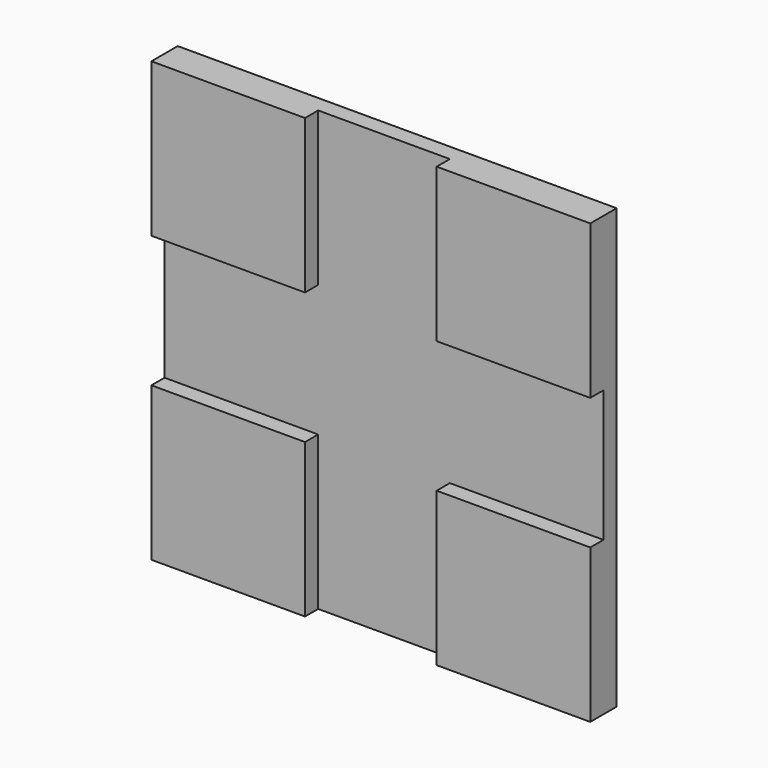
from build123d import *

# Parameters (mm, degrees)
F0_W     = 355.6
F0_H     = 355.6
F1_DEPTH = 38.1
F2_DEPTH = 76.2


with BuildPart() as f1:
    # F0 (on Front) → F1 (new body)
    with BuildSketch(Plane.XZ):
        with Locations((1122.902123, -4376.915325)):
            Rectangle(F0_W, F0_H)
        Polygon((945.102123, -3894.315325), (945.102123, -4199.115325), (1300.702123, -4199.115325), (1300.702123, -4554.715325), (1605.502123, -4554.715325), (1605.502123, -4199.115325), (1961.102123, -4199.115325), (1961.102123, -3894.315325), (1605.502123, -3894.315325), (1605.502123, -3538.715325), (1300.702123, -3538.715325), (1300.702123, -3894.315325), align=None)
        with Locations((1783.302123, -4376.915325)):
            Rectangle(F0_W, F0_H)
        with Locations((1783.302123, -3716.515325)):
            Rectangle(F0_W, F0_H)
        with Locations((1122.902123, -3716.515325)):
            Rectangle(F0_W, F0_H)
    extrude(amount=F1_DEPTH)

    # F0 (on Front) → F2 (join)
    with BuildSketch(Plane.XZ):
        with Locations((1783.302123, -3716.515325)):
            Rectangle(F0_W, F0_H)
        with Locations((1783.302123, -4376.915325)):
            Rectangle(F0_W, F0_H)
        with Locations((1122.902123, -4376.915325)):
            Rectangle(F0_W, F0_H)
        with Locations((1122.902123, -3716.515325)):
            Rectangle(F0_W, F0_H)
    extrude(amount=F2_DEPTH)


solid = f1.part
